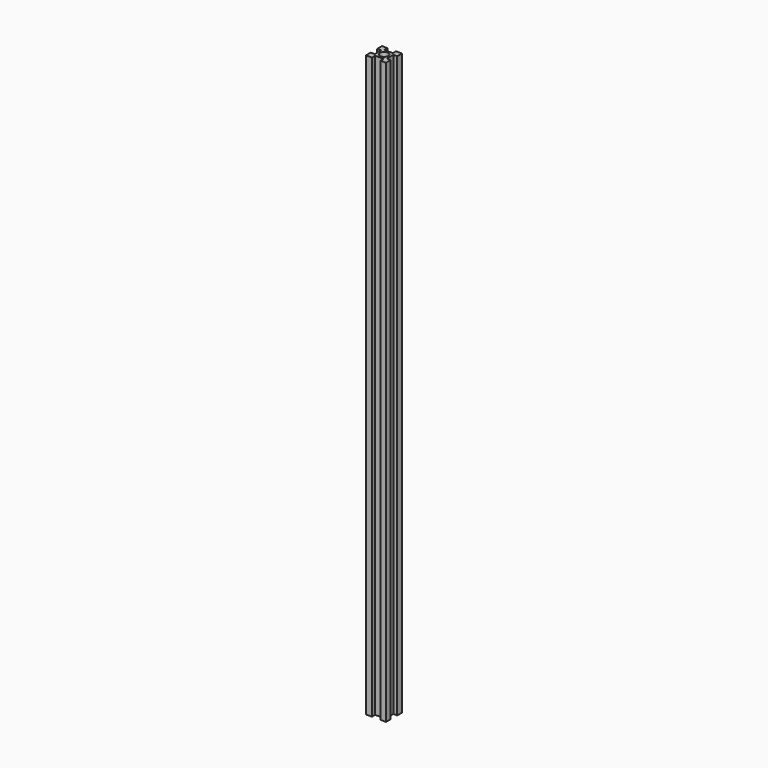
from build123d import *

# Parameters (mm, degrees)
F1_DEPTH = 73.66


with BuildPart() as f1:
    # F0 (on Top) → F1 (new body)
    with BuildSketch(Plane.XY):
        Polygon((0, 0.745179), (0, 0), (0.759324, 0), (0.759324, 0.504631), (1.82637, 0.504631), (1.82637, 0), (2.54, 0), (2.54, 0.745179), (2.042246, 0.745179), (2.042246, 1.781386), (2.54, 1.781386), (2.54, 2.54), (1.777027, 2.54), (1.777027, 2.034269), (0.703813, 2.034269), (0.703813, 2.54), (0, 2.54), (0, 1.781386), (0.50644, 1.781386), (0.50644, 1.27), (0.50644, 0.745179), align=None)
        with BuildLine():
            ThreePointArc((1.80055, 1.27), (1.277427, 0.746877), (0.754304, 1.27))
            ThreePointArc((0.754304, 1.27), (1.277427, 1.793123), (1.80055, 1.27))
        make_face(mode=Mode.SUBTRACT)
    extrude(amount=F1_DEPTH)


solid = f1.part
